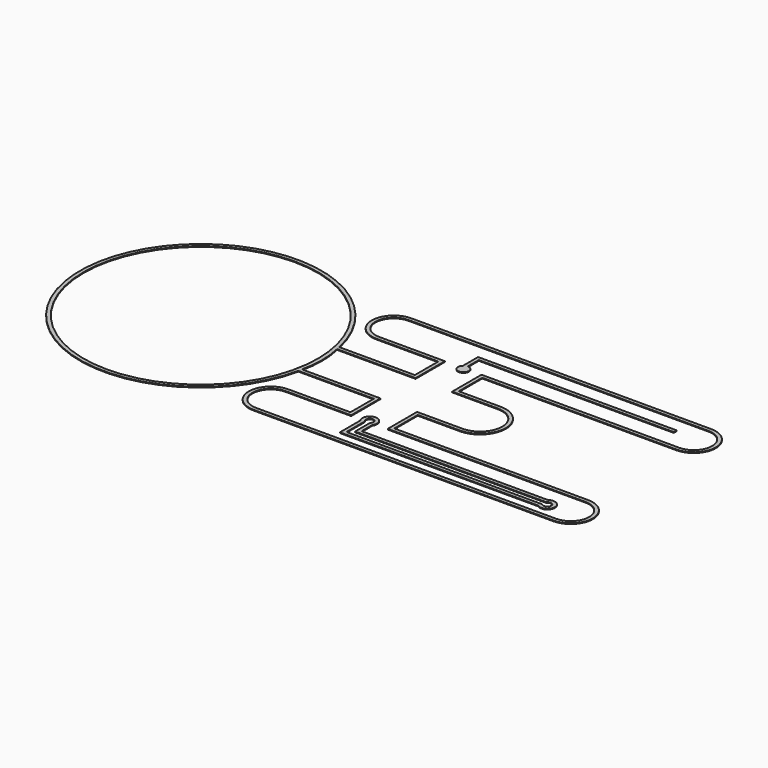
from build123d import *

# Parameters (mm, degrees)
F0_R     = 16
F1_DEPTH = 0.1
F3_DEPTH = 0.1


with BuildPart() as f1:
    # F0 (on Top) → F1 (new body)
    with BuildSketch(Plane.XY):
        with BuildLine():
            ThreePointArc((16.224981, -3), (16.562818, 0), (16.224981, 3))
            ThreePointArc((16.224981, 3), (16.17668, 3.250388), (16.124515, 3.5))
            ThreePointArc((16.124515, 3.5), (-16.5, 0), (16.124515, -3.5))
            ThreePointArc((16.124515, -3.5), (16.17668, -3.250388), (16.224981, -3))
        make_face()
        Circle(F0_R, mode=Mode.SUBTRACT)
        with BuildLine():
            ThreePointArc((16.124515, 3.5), (16.17668, 3.250388), (16.224981, 3))
            Line((16.224981, 3), (26.94017, 3))
            Line((26.94017, 3), (26.94017, 8))
            Line((26.94017, 8), (17.966412, 8))
            ThreePointArc((17.966412, 8), (15.466412, 10.5), (17.966412, 13))
            Line((17.966412, 13), (58.942758, 13))
            ThreePointArc((58.942758, 13), (61.442758, 10.5), (58.942758, 8))
            Line((58.942758, 8), (31.94017, 8))
            Line((31.94017, 8), (31.94017, 3))
            Line((31.94017, 3), (38.164107, 3))
            ThreePointArc((38.164107, 3), (41.164107, 0), (38.164107, -3))
            Line((38.164107, -3), (31.94017, -3))
            Line((31.94017, -3), (31.94017, -8))
            Line((31.94017, -8), (58.942758, -8))
            ThreePointArc((58.942758, -8), (61.442758, -10.5), (58.942758, -13))
            Line((58.942758, -13), (17.966412, -13))
            ThreePointArc((17.966412, -13), (15.466412, -10.5), (17.966412, -8))
            Line((17.966412, -8), (26.94017, -8))
            Line((26.94017, -8), (26.94017, -3))
            Line((26.94017, -3), (16.224981, -3))
            ThreePointArc((16.224981, -3), (16.17668, -3.250388), (16.124515, -3.5))
            Line((16.124515, -3.5), (26.44017, -3.5))
            Line((26.44017, -3.5), (26.44017, -7.5))
            Line((26.44017, -7.5), (17.966412, -7.5))
            ThreePointArc((17.966412, -7.5), (14.966412, -10.5), (17.966412, -13.5))
            Line((17.966412, -13.5), (58.942758, -13.5))
            ThreePointArc((58.942758, -13.5), (61.942758, -10.5), (58.942758, -7.5))
            Line((58.942758, -7.5), (32.44017, -7.5))
            Line((32.44017, -7.5), (32.44017, -3.5))
            Line((32.44017, -3.5), (38.164107, -3.5))
            ThreePointArc((38.164107, -3.5), (41.664107, 0), (38.164107, 3.5))
            Line((38.164107, 3.5), (32.44017, 3.5))
            Line((32.44017, 3.5), (32.44017, 7.5))
            Line((32.44017, 7.5), (58.942758, 7.5))
            ThreePointArc((58.942758, 7.5), (61.942758, 10.5), (58.942758, 13.5))
            Line((58.942758, 13.5), (17.966412, 13.5))
            ThreePointArc((17.966412, 13.5), (14.966412, 10.5), (17.966412, 7.5))
            Line((17.966412, 7.5), (26.44017, 7.5))
            Line((26.44017, 7.5), (26.44017, 3.5))
            Line((26.44017, 3.5), (16.124515, 3.5))
        make_face()
    extrude(amount=F1_DEPTH)


with BuildPart() as f3:
    # F2 (on Top) → F3 (new body)
    with BuildSketch(Plane.XY):
        with BuildLine():
            Line((29.607697, 10.461607), (56.231415, 10.461607))
            Line((56.231415, 10.461607), (56.231415, 10.961607))
            Line((56.231415, 10.961607), (29.107697, 10.961607))
            Line((29.107697, 10.961607), (29.107697, 8.375616))
            ThreePointArc((29.107697, 8.375616), (29.339443, 8.519799), (29.607697, 8.570144))
            Line((29.607697, 8.570144), (29.607697, 10.461607))
        make_face()
        with BuildLine():
            ThreePointArc((30.347543, 7.830298), (30.130847, 8.353448), (29.607697, 8.570144))
            Line((29.607697, 8.570144), (29.607697, 7.830298))
            Line((29.607697, 7.830298), (29.107697, 7.830298))
            Line((29.107697, 7.830298), (29.107697, 8.375616))
            ThreePointArc((29.107697, 8.375616), (29.309831, 7.153062), (30.347543, 7.830298))
        make_face()
        with BuildLine():
            Line((29.607697, 7.830298), (29.607697, 8.570144))
            ThreePointArc((29.607697, 8.570144), (29.339443, 8.519799), (29.107697, 8.375616))
            Line((29.107697, 8.375616), (29.107697, 7.830298))
            Line((29.107697, 7.830298), (29.607697, 7.830298))
        make_face()
        with BuildLine():
            Line((28.457697, -11.818727), (55.542194, -11.818727))
            ThreePointArc((55.542194, -11.818727), (57.158196, -10.993727), (55.542194, -10.168727))
            Line((55.542194, -10.168727), (30.107697, -10.168727))
            Line((30.107697, -10.168727), (30.107697, -8.311753))
            ThreePointArc((30.107697, -8.311753), (29.282697, -6.742833), (28.457697, -8.311753))
            Line((28.457697, -8.311753), (28.457697, -11.818727))
        make_face()
        with BuildLine():
            Line((29.607697, -10.668727), (55.735489, -10.668727))
            ThreePointArc((55.735489, -10.668727), (56.658196, -10.993727), (55.735489, -11.318727))
            Line((55.735489, -11.318727), (28.957697, -11.318727))
            Line((28.957697, -11.318727), (28.957697, -8.125968))
            ThreePointArc((28.957697, -8.125968), (29.282697, -7.242833), (29.607697, -8.125968))
            Line((29.607697, -8.125968), (29.607697, -10.668727))
        make_face(mode=Mode.SUBTRACT)
    extrude(amount=F3_DEPTH)


solid = Compound([f1.part, f3.part])
